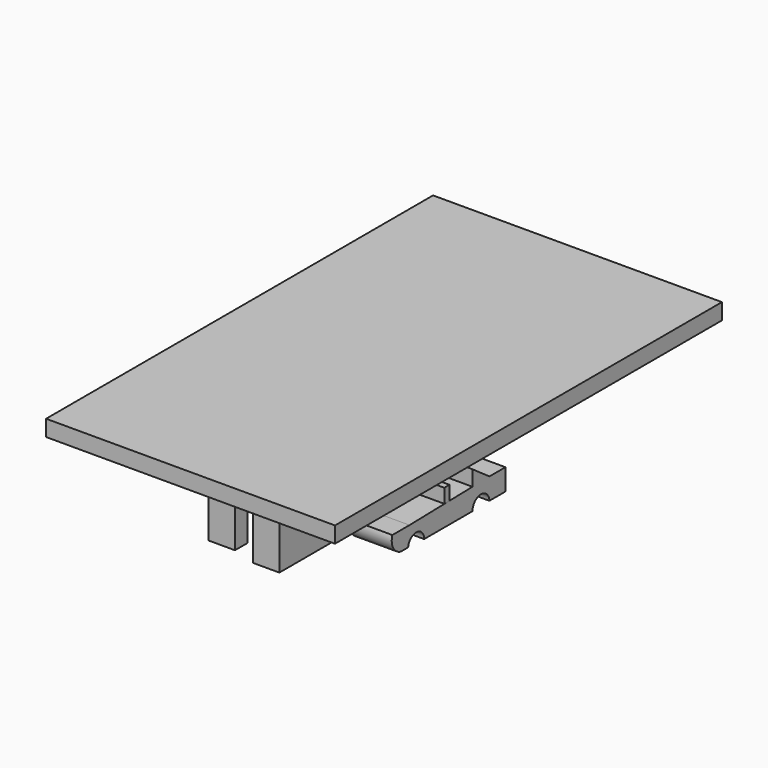
from build123d import *

# Parameters (mm, degrees)
F0_W      = 227.5685612466
F0_H      = 381
F1_DEPTH  = 12.7
F2_W      = 5.7198144495
F2_H      = 12.3888067901
F2_W_2    = 13.4890703484
F2_H_2    = 15.7491192222
F3_DEPTH  = 25.4
F2_W_3    = 20.7718969323
F4_DEPTH  = 76.2
F5_W      = 115.214029327
F5_H      = 38.1
F6_DEPTH  = 7.62
F7_W      = 21.851953119
F7_H      = 9.3133300543
F7_W_2    = 3.2927580178
F7_H_2    = 7.1966685355
F7_W_3    = 3.5920999944
F7_H_3    = 7.4083320796
F7_W_4    = 3.5921037197
F7_H_4    = 7.6199993491
F8_DEPTH  = 133.4340272107
F12_DEPTH = 33.02
F11_W     = 5.1117502153
F11_H     = 11.1124999821
F11_R     = 6.8230577634
F13_DEPTH = 5.08
F11_R_2   = 6.3281995519
F14_DEPTH = 33.02


with BuildPart() as f1:
    # F0 (on Top) → F1 (new body)
    with BuildSketch(Plane.XY):
        Rectangle(F0_W, F0_H)
    extrude(amount=F1_DEPTH)

    # F2 (on face) → F3 (join)
    with BuildSketch(Plane(origin=(0, 0, 0), x_dir=(1, 0, 0), z_dir=(0, 0, -1))):
        with Locations((0, -132.4641108513)):
            Rectangle(F2_W, F2_H)
        with Locations((-34.2918671668, -68.5019493103)):
            Rectangle(F2_W_2, F2_H_2)
    extrude(amount=F3_DEPTH)

    # F2 (on face) → F4 (join)
    with BuildSketch(Plane(origin=(0, 0, 0), x_dir=(1, 0, 0), z_dir=(0, 0, -1))):
        with Locations((0, -132.4641108513)):
            Rectangle(F2_W, F2_H)
        with Locations((-34.2918671668, -68.5019493103)):
            Rectangle(F2_W_2, F2_H_2)
        with Locations((9.2627981212, 121.4084327221)):
            Rectangle(F2_W_3, F2_H)
        with Locations((-30.6504538748, 115.214029327)):
            Rectangle(F2_W_3, F2_H)
    extrude(amount=F4_DEPTH)

    # F5 (on face) → F6 (join)
    with BuildSketch(Plane.YZ.offset(19.6487465873)):
        with Locations((-57.6070146635, -57.15)):
            Rectangle(F5_W, F5_H)
    extrude(amount=-F6_DEPTH)

    # F7 (on face) → F8 (cut, through all)
    with BuildSketch(Plane.YZ.offset(19.6487465873)):
        with Locations((-14.6423373371, -49.212500453)):
            Rectangle(F7_W, F7_H)
        with Locations((-22.7245669812, -64.6641682833)):
            Rectangle(F7_W_2, F7_H_2)
        with Locations((-13.5946366936, -64.5583365113)):
            Rectangle(F7_W_3, F7_H_3)
        with Locations((-5.5124126375, -64.4525028765)):
            Rectangle(F7_W_4, F7_H_4)
    extrude(amount=-F8_DEPTH, mode=Mode.SUBTRACT)


with BuildPart() as f12:
    # F11 (on offset) → F12 (new body)
    with BuildSketch(Plane.YZ.offset(32.3487465873)):
        with BuildLine():
            ThreePointArc((-57.9326376319, -72.151876986), (-49.7231741627, -64.9217132577), (-42.1528853476, -72.8186294436))
            Line((-42.1528853476, -72.8186294436), (5.4086139426, -72.8186294436))
            Line((5.4086139426, -72.8186294436), (5.4086139426, -55.8598177097))
            Line((5.4086139426, -55.8598177097), (-17.2608867288, -56.3721247017))
            Line((-17.2608867288, -56.3721247017), (-56.5991364419, -57.2611279786))
            Line((-56.5991364419, -57.2611279786), (-73.4901353717, -57.2611279786))
            ThreePointArc((-73.4901353717, -57.2611279786), (-72.6236893565, -66.6100777312), (-65.0446359068, -72.151876986))
            Line((-65.0446359068, -72.151876986), (-57.9326376319, -72.151876986))
        make_face()
        with BuildLine():
            Line((5.4086139426, -55.8598177097), (5.4086139426, -72.8186294436))
            ThreePointArc((5.4086139426, -72.8186294436), (13.5265818153, -64.4812919947), (22.0773629844, -72.3741203547))
            Line((22.0773629844, -72.3741203547), (37.8571152687, -72.3741203547))
            Line((37.8571152687, -72.3741203547), (37.8571152687, -55.4831214249))
            Line((37.8571152687, -55.4831214249), (22.0773629844, -55.4831214249))
            Line((22.0773629844, -55.4831214249), (5.4086139426, -55.8598177097))
        make_face()
    extrude(amount=F12_DEPTH)

    # F11 (on offset) → F14 (join)
    with BuildSketch(Plane.YZ.offset(32.3487465873)):
        Polygon((5.4086139426, -43.7038764358), (5.4086139426, -55.8598177097), (22.0773629844, -55.4831214249), align=None)
    extrude(amount=F14_DEPTH)


with BuildPart() as f12b:
    # F11 (on offset) → F12, piece 2 (new body)
    with BuildSketch(Plane.YZ.offset(32.3487465873)):
        with Locations((-19.8167618364, -50.8158747107)):
            Rectangle(F11_W, F11_H)
    extrude(amount=F12_DEPTH)


with BuildPart() as f13:
    # F11 (on offset) → F13 (new body)
    with BuildSketch(Plane.YZ.offset(32.3487465873)):
        with Locations((-50.0568478592, -72.8186294436)):
            Circle(F11_R)
        with BuildLine():
            ThreePointArc((-46.6563293903, -69.5941245821), (-45.703880836, -71.0829348983), (-45.3705958963, -72.8186294436))
            ThreePointArc((-45.3705958963, -72.8186294436), (-45.7515139757, -74.6693205609), (-46.8323429976, -76.2191479125))
            ThreePointArc((-46.8323429976, -76.2191479125), (-48.3211533138, -77.1715964668), (-50.0568478592, -77.5048814065))
            ThreePointArc((-50.0568478592, -77.5048814065), (-51.9075389764, -77.1239633271), (-53.4573663281, -76.0431343052))
            ThreePointArc((-53.4573663281, -76.0431343052), (-54.4098148823, -74.554323989), (-54.743099822, -72.8186294436))
            ThreePointArc((-54.743099822, -72.8186294436), (-54.3621817426, -70.9679383264), (-53.2813527207, -69.4181109747))
            ThreePointArc((-53.2813527207, -69.4181109747), (-51.7925424045, -68.4656624205), (-50.0568478592, -68.1323774808))
            ThreePointArc((-50.0568478592, -68.1323774808), (-48.2061567419, -68.5132955602), (-46.6563293903, -69.5941245821))
        make_face(mode=Mode.SUBTRACT)
    extrude(amount=F13_DEPTH)


with BuildPart() as f13b:
    # F11 (on offset) → F13, piece 2 (new body)
    with BuildSketch(Plane.YZ.offset(32.3487465873)):
        with Locations((13.7489153729, -72.8186294436)):
            Circle(F11_R_2)
        with BuildLine():
            ThreePointArc((13.7489153729, -68.8402636502), (16.5620448034, -70.0055000131), (17.7272811663, -72.8186294436))
            ThreePointArc((17.7272811663, -72.8186294436), (16.5620448034, -75.6317588742), (13.7489153729, -76.7969952371))
            ThreePointArc((13.7489153729, -76.7969952371), (10.9357859423, -75.6317588742), (9.7705495795, -72.8186294436))
            ThreePointArc((9.7705495795, -72.8186294436), (10.9357859423, -70.0055000131), (13.7489153729, -68.8402636502))
        make_face(mode=Mode.SUBTRACT)
    extrude(amount=F13_DEPTH)


solid = Compound([f1.part, f12.part, f12b.part, f13.part, f13b.part])
